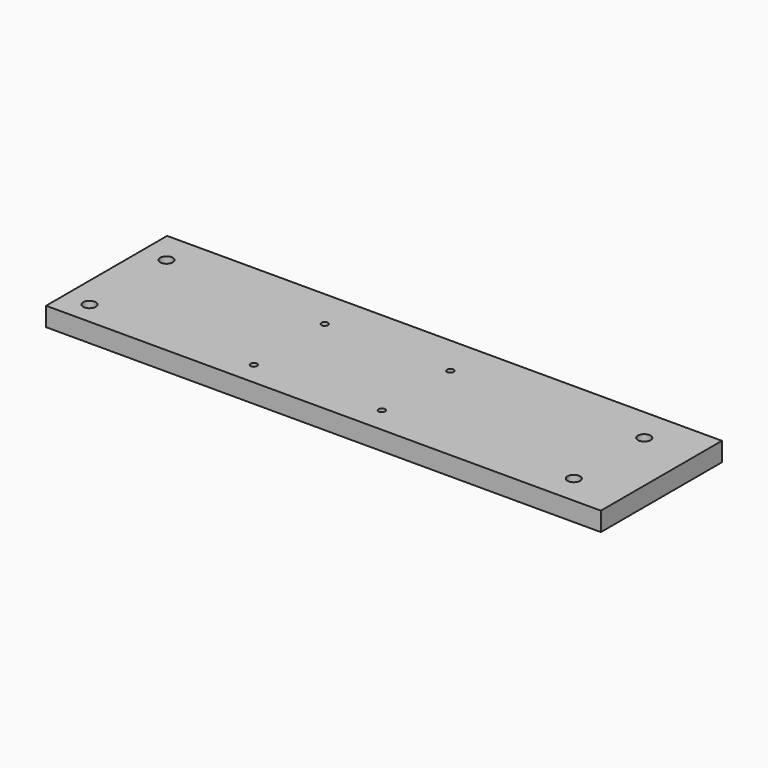
from build123d import *

# Parameters (mm, degrees)
F0_W     = 279.4
F0_H     = 76.2
F0_R     = 3.175
F0_R_2   = 1.651
F1_DEPTH = 9.525


with BuildPart() as f1:
    # F0 (on Top) → F1 (new body)
    with BuildSketch(Plane.XY):
        with Locations((139.7, 38.1)):
            Rectangle(F0_W, F0_H)
        with Locations((12.7, 11.443)):
            Circle(F0_R, mode=Mode.SUBTRACT)
        with Locations((95.25, 11.728361)):
            Circle(F0_R_2, mode=Mode.SUBTRACT)
        with Locations((158.75, 12.945086)):
            Circle(F0_R_2, mode=Mode.SUBTRACT)
        with Locations((254, 14.715764)):
            Circle(F0_R, mode=Mode.SUBTRACT)
        with Locations((95.25, 56.334678)):
            Circle(F0_R_2, mode=Mode.SUBTRACT)
        with Locations((12.7, 59.975673)):
            Circle(F0_R, mode=Mode.SUBTRACT)
        with Locations((158.75, 56.031257)):
            Circle(F0_R_2, mode=Mode.SUBTRACT)
        with Locations((254, 59.065424)):
            Circle(F0_R, mode=Mode.SUBTRACT)
    extrude(amount=F1_DEPTH)


solid = f1.part
